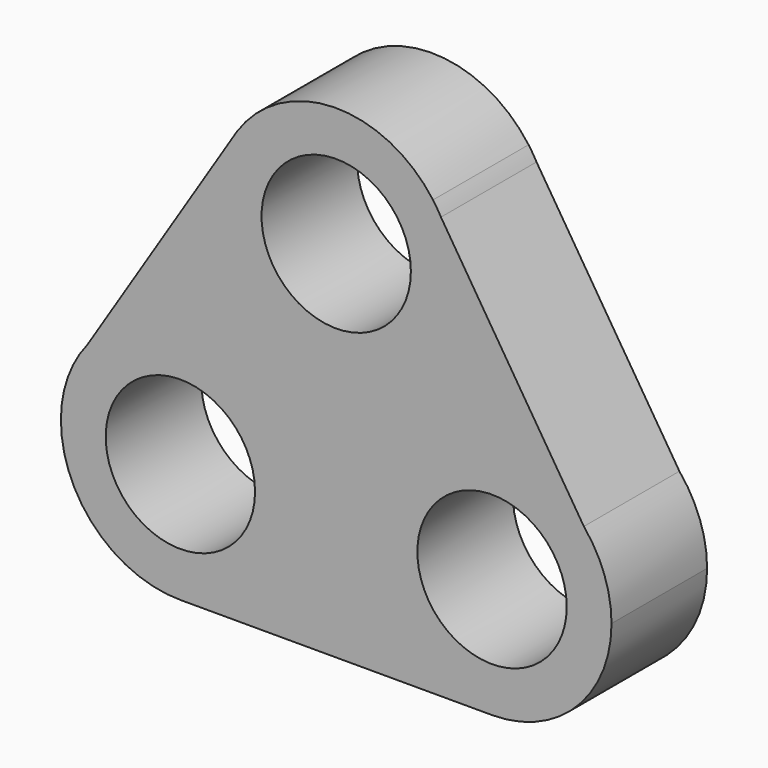
from build123d import *

# Parameters (mm, degrees)
F0_R     = 15.875
F1_DEPTH = 25.4


with BuildPart() as f1:
    # F0 (on Front) → F1 (new body)
    with BuildSketch(Plane.XZ):
        with BuildLine():
            ThreePointArc((-49.0055754781, -12.3038528651), (-41.5660877202, -30.2643651072), (-23.6055754781, -37.7038528651))
            Line((-23.6055754781, -37.7038528651), (-23.3435511934, -37.7038528651))
            Line((-23.3435511934, -37.7038528651), (42.6555754781, -37.7038528651))
            ThreePointArc((42.6555754781, -37.7038528651), (60.6160877202, -30.2643651072), (68.0555754781, -12.3038528651))
            ThreePointArc((68.0555754781, -12.3038528651), (66.5394936483, -3.6598692442), (62.1722327349, 3.9522256755))
            Line((62.1722327349, 3.9522256755), (31.7932017285, 51.9582280247))
            Line((31.7932017285, 51.9582280247), (30.1001638771, 54.6336253754))
            ThreePointArc((30.1001638771, 54.6336253754), (9.0757549966, 65.1359410719), (-11.5640531978, 53.8966029481))
            Line((-11.5640531978, 53.8966029481), (-12.2938214906, 52.7437224792))
            Line((-12.2938214906, 52.7437224792), (-43.3631999383, 3.6606368673))
            ThreePointArc((-43.3631999383, 3.6606368673), (-47.5104832797, -3.714089206), (-49.0055754781, -12.0418285804))
            Line((-49.0055754781, -12.0418285804), (-49.0055754781, -12.3038528651))
        make_face()
        with Locations((-23.6055754781, -12.3038528651)):
            Circle(F0_R, mode=Mode.SUBTRACT)
        with BuildLine():
            ThreePointArc((26.7805754781, -12.3038528651), (42.6555754781, 3.5711471349), (58.5305754781, -12.3038528651))
            ThreePointArc((58.5305754781, -12.3038528651), (42.6555754781, -28.1788528651), (26.7805754781, -12.3038528651))
        make_face(mode=Mode.SUBTRACT)
        with Locations((9.525, 39.7399142385)):
            Circle(F0_R, mode=Mode.SUBTRACT)
        with BuildLine():
            Line((-23.3435511934, -37.7038528651), (-23.6055754781, -37.7038528651))
            ThreePointArc((-23.6055754781, -37.7038528651), (-41.5660877202, -30.2643651072), (-49.0055754781, -12.3038528651))
            Line((-49.0055754781, -12.3038528651), (-49.0055754781, -12.0418285804))
            ThreePointArc((-49.0055754781, -12.0418285804), (-41.5670433569, -30.2653207439), (-23.3435511934, -37.7038528651))
        make_face()
        with BuildLine():
            ThreePointArc((-11.5640531978, 53.8966029481), (-11.936680058, 53.3250638176), (-12.2938214906, 52.7437224792))
            Line((-12.2938214906, 52.7437224792), (-11.5640531978, 53.8966029481))
        make_face()
        with BuildLine():
            Line((30.1001638771, 54.6336253754), (31.7932017285, 51.9582280247))
            ThreePointArc((31.7932017285, 51.9582280247), (30.9884091386, 53.3223318491), (30.1001638771, 54.6336253754))
        make_face()
    extrude(amount=F1_DEPTH)


solid = f1.part
